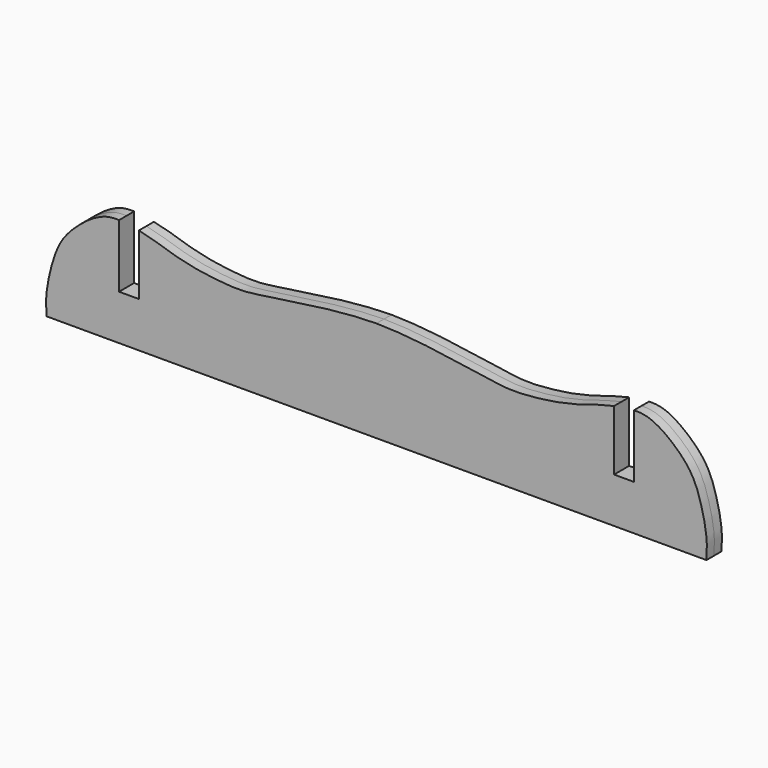
from build123d import *

# Parameters (mm, degrees)
F1_DEPTH = 5


with BuildPart() as f1:
    # F0 (on Front) → F1 (new body, symmetric)
    with BuildSketch(Plane.XZ):
        with BuildLine():
            add(Edge.make_bspline(
                [(-175, 0), (-175.188673045, 3.351397706), (-175.610707382, 10.8479900742), (-171.9496406387, 27.0806635508), (-166.8051864122, 40.1985055158), (-154.5461010079, 51.4071622955), (-145.8965516954, 56.3691980075), (-140.7914483807, 57.537522072), (-137.0120384714, 57.4470390791), (-136.5, 57.4243189561)],
                knots=[0, 0, 0, 0, 0.0543988534, 0.1216823741, 0.1848452702, 0.2517909749, 0.3034780006, 0.3502313349, 0.3572812312, 0.3572812312, 0.3572812312, 0.3572812312], degree=3))
            Line((-175, 0), (175, 0))
            add(Edge.make_bspline(
                [(175, 0), (175.188673045, 3.351397706), (175.610707382, 10.8479900742), (171.9496406387, 27.0806635508), (166.8051864122, 40.1985055158), (154.5461010079, 51.4071622955), (145.8965516954, 56.3691980075), (140.7914483807, 57.537522072), (137.0120384714, 57.4470390791), (136.5, 57.4243189561)],
                knots=[0, 0, 0, 0, 0.0543988534, 0.1216823741, 0.1848452702, 0.2517909749, 0.3034780006, 0.3502313349, 0.3572812312, 0.3572812312, 0.3572812312, 0.3572812312], degree=3))
            Line((136.5, 57.4243189561), (136.5, 24))
            Line((136.5, 24), (126, 24))
            Line((126, 24), (126, 56.0013009423))
            add(Edge.make_bspline(
                [(126, 56.0013009423), (124.5541483871, 55.7054349891), (117.9690685875, 54.1920327425), (108.7801784568, 50.7466012387), (93.3847968667, 47.3123085388), (83.2375200687, 46.3002820803), (72.0517797856, 45.2951236), (60.836509294, 46.8641725504), (48.196586284, 48.7594985748), (36.1154087388, 50.4903707353), (21.5902138007, 52.4468689764), (9.0439454159, 53.3623544266), (2.8297087613, 53.5104309658), (0, 53.5778589547)],
                knots=[0.400350912, 0.400350912, 0.400350912, 0.400350912, 0.4175725687, 0.4800193127, 0.5451438854, 0.598697673, 0.6535805236, 0.7097817025, 0.7689571176, 0.8274220088, 0.8913528467, 0.9505265379, 1, 1, 1, 1], degree=3))
            add(Edge.make_bspline(
                [(-126, 56.0013009423), (-124.5541483871, 55.7054349891), (-117.9690685875, 54.1920327425), (-108.7801784568, 50.7466012387), (-93.3847968667, 47.3123085388), (-83.2375200687, 46.3002820803), (-72.0517797856, 45.2951236), (-60.836509294, 46.8641725504), (-48.196586284, 48.7594985748), (-36.1154087388, 50.4903707353), (-21.5902138007, 52.4468689764), (-9.0439454159, 53.3623544266), (-2.8297087613, 53.5104309658), (0, 53.5778589547)],
                knots=[0.400350912, 0.400350912, 0.400350912, 0.400350912, 0.4175725687, 0.4800193127, 0.5451438854, 0.598697673, 0.6535805236, 0.7097817025, 0.7689571176, 0.8274220088, 0.8913528467, 0.9505265379, 1, 1, 1, 1], degree=3))
            Line((-126, 56.0013009423), (-126, 24))
            Line((-126, 24), (-136.5, 24))
            Line((-136.5, 24), (-136.5, 57.4243189561))
        make_face()
    extrude(amount=F1_DEPTH, both=True)


solid = f1.part
